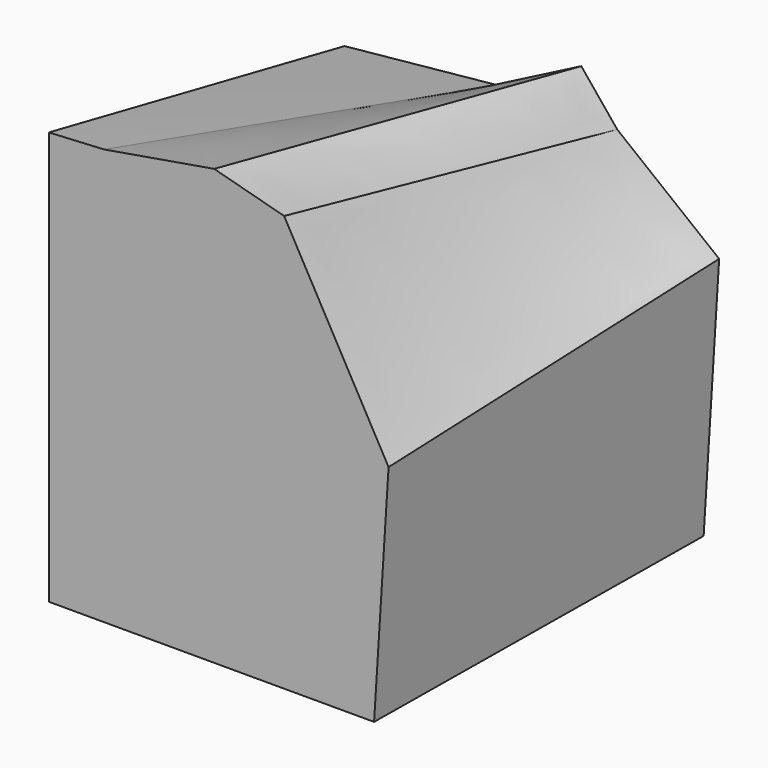
from build123d import *


with BuildPart() as f3:
    # F2 (on offset) → F3 section 0
    with BuildSketch(Plane.XZ.offset(1000)):
        Polygon((0, 1051.6645732576), (0, -66.1868247209), (879.9282174974, -66.1868247209), (913.65275338, 466.8145467738), (919.1334247589, 553.4341335297), (636.5306197765, 1059.6362352371), (447.4357799916, 1110.3743195437), (148.942515254, 1059.6362352371), align=None)
    # F0 (on Front) → F3 section 1
    with BuildSketch(Plane.XZ):
        Polygon((0, 850.7930636406), (0, 0), (971.5111851692, 0), (1004.7394037247, 533.0327749252), (1013.5085462703, 673.7035838946), (737.8241419792, 892.0682072639), (640.5262947083, 1011.2581253052), (411.8763506413, 892.0682072639), align=None)
    loft()


solid = f3.part
